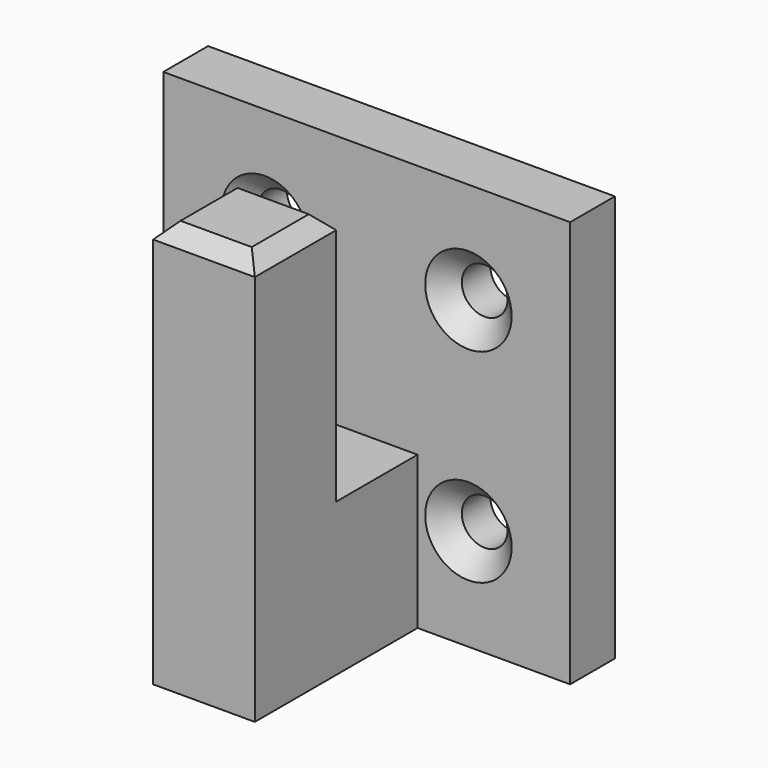
from build123d import *

# Parameters (mm, degrees)
F0_W     = 40
F0_H     = 40
F0_R     = 2.25
F1_DEPTH = 5.5
F2_SIZE  = 2
F3_W     = 10
F3_H     = 15
F4_DEPTH = 20
F5_W     = 10
F5_H     = 10
F6_DEPTH = 25
F7_SIZE  = 1.5


with BuildPart() as f1:
    # F0 (on Front) → F1 (new body)
    with BuildSketch(Plane.XZ):
        with Locations((20, 20)):
            Rectangle(F0_W, F0_H)
        with Locations((9.999904, 9.999904)):
            Circle(F0_R, mode=Mode.SUBTRACT)
        with Locations((30.000096, 9.999904)):
            Circle(F0_R, mode=Mode.SUBTRACT)
        with Locations((9.999904, 30.000096)):
            Circle(F0_R, mode=Mode.SUBTRACT)
        with Locations((30.000096, 30.000096)):
            Circle(F0_R, mode=Mode.SUBTRACT)
    extrude(amount=F1_DEPTH)

    # F2
    f2_edges = [f1.edges().sort_by_distance(p)[0] for p in [
        (7.749904, -5.5, 30.000096),
        (27.750096, -5.5, 30.000096),
        (27.750096, -5.5, 9.999904),
        (7.749904, -5.5, 9.999904),
    ]]
    chamfer(f2_edges, length=F2_SIZE)

    # F3 (on face) → F4 (join)
    with BuildSketch(Plane.XZ.offset(5.5)):
        with Locations((20, 7.5)):
            Rectangle(F3_W, F3_H)
    extrude(amount=F4_DEPTH)

    # F5 (on face) → F6 (join)
    with BuildSketch(Plane.XY.offset(15)):
        with Locations((20, -20.5)):
            Rectangle(F5_W, F5_H)
    extrude(amount=F6_DEPTH)

    # F7
    f7_edges = [f1.edges().sort_by_distance(p)[0] for p in [
        (20, -25.5, 40),
        (25, -20.5, 40),
        (20, -15.5, 40),
        (15, -20.5, 40),
    ]]
    chamfer(f7_edges, length=F7_SIZE)


solid = f1.part
